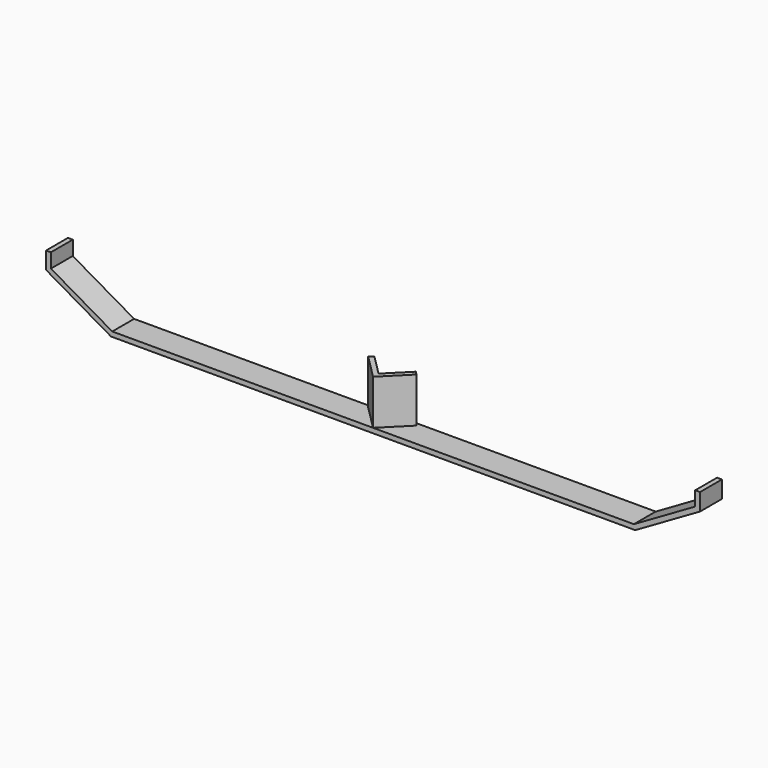
from build123d import *

# Parameters (mm, degrees)
F2_DEPTH = 50.8
F3_DEPTH = 83.6


with BuildPart() as f2:
    # F0 (on Front) → F2 (new body)
    with BuildSketch(Plane.XZ):
        Polygon((-120.65, 69.6573099777), (0, 0), (487.3625, 0), (487.3625, 9), (2.4115427319, 9), (-111.65, 74.8534624004), (-111.65, 101.5973099777), (-120.65, 101.5973099777), align=None)
        Polygon((487.3625, 9), (487.3625, 0), (974.725, 0), (1095.375, 69.6573099777), (1095.375, 101.5973099777), (1086.375, 101.5973099777), (1086.375, 74.8534624004), (972.3134572681, 9), align=None)
    extrude(amount=F2_DEPTH)


with BuildPart() as f3:
    # F1 (on Top) → F3 (new body)
    with BuildSketch(Plane.XY):
        Polygon((452.6319431111, 224.0033788631), (497.5332237165, 179.1020982578), (542.4345043218, 224.0033788631), (536.0705432912, 230.3673398938), (497.5332237165, 191.8300203191), (458.9959041418, 230.3673398938), align=None)
    extrude(amount=F3_DEPTH)


with BuildPart() as f3_1:
    # F5: moved
    add(f3.part.moved(Location((-10.1707237165, -229.9020982578, 9))))


solid = Compound([f2.part, f3_1.part])
